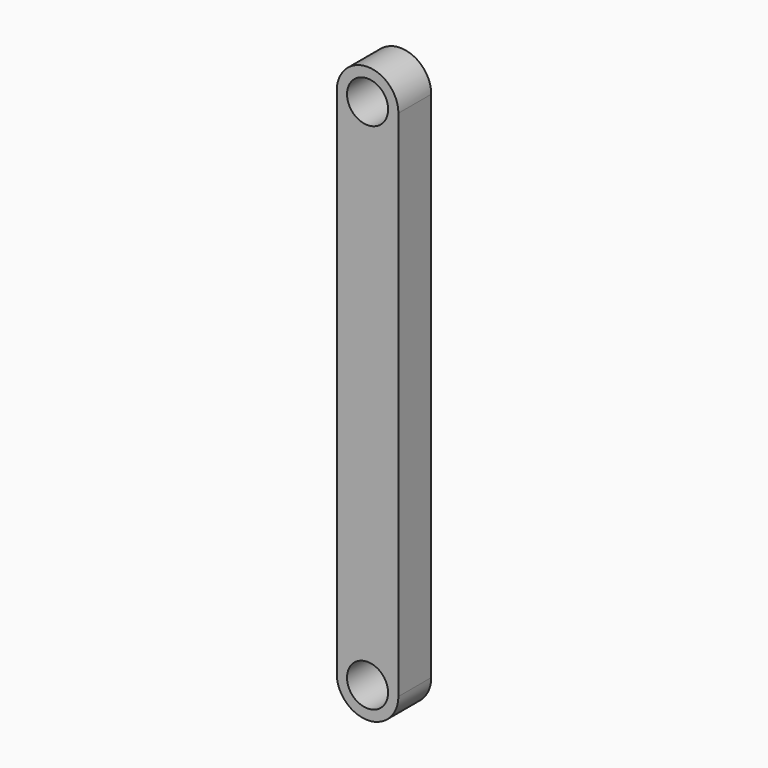
from build123d import *

# Parameters (mm, degrees)
F0_R     = 10
F1_DEPTH = 10


with BuildPart() as f1:
    # F0 (on Front) → F1 (new body, symmetric)
    with BuildSketch(Plane.XZ):
        with BuildLine():
            Line((15, -250), (15, 0))
            ThreePointArc((15, 0), (0, 15), (-15, 0))
            Line((-15, 0), (-15, -250))
            ThreePointArc((-15, -250), (0, -265), (15, -250))
        make_face()
        with Locations((0, -250)):
            Circle(F0_R, mode=Mode.SUBTRACT)
        Circle(F0_R, mode=Mode.SUBTRACT)
    extrude(amount=F1_DEPTH, both=True)


solid = f1.part
